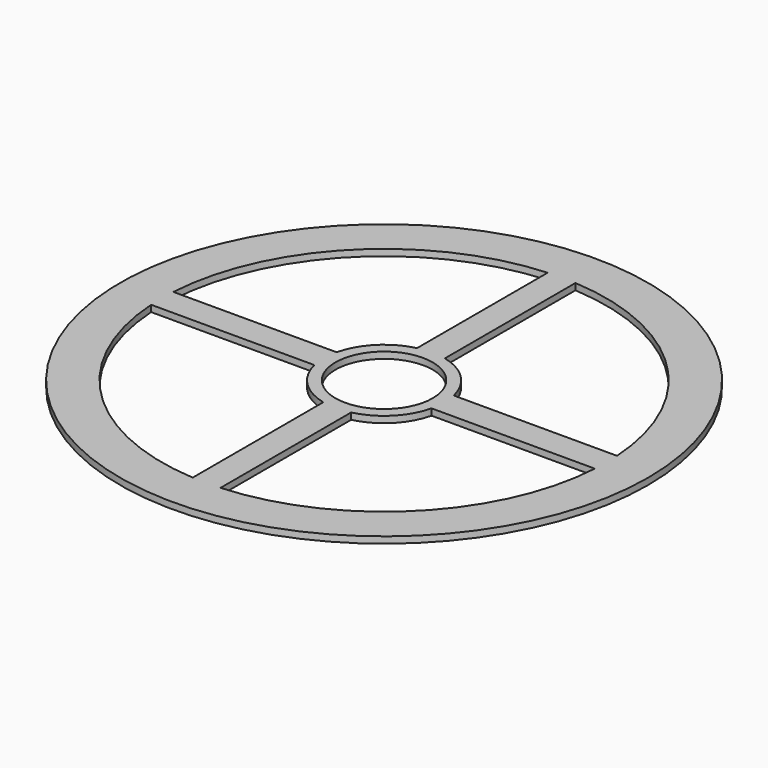
from build123d import *

# Parameters (mm, degrees)
F0_R     = 28.5
F1_DEPTH = 0.7
F2_R     = 5.25
F3_DEPTH = 0.7
F5_DEPTH = 0.7


with BuildPart() as f1:
    # F0 (on Top) → F1 (new body)
    with BuildSketch(Plane.XY):
        Circle(F0_R)
    extrude(amount=F1_DEPTH)

    # F2 (on face) → F3 (cut, through all)
    with BuildSketch(Plane.XY.offset(0.7)):
        Circle(F2_R)
    extrude(amount=-F3_DEPTH, mode=Mode.SUBTRACT)

    # F4 (on face) → F5 (cut, through all)
    with BuildSketch(Plane.XY.offset(0.7)):
        with BuildLine():
            Line((-1.500154, 6.324555), (-1.500154, 23.953079))
            ThreePointArc((-1.500154, 23.953079), (-16.970717, 16.970563), (-23.953233, 1.5))
            Line((-23.953233, 1.5), (-6.324709, 1.5))
            ThreePointArc((-6.324709, 1.5), (-4.596348, 4.596194), (-1.500154, 6.324555))
        make_face()
        with BuildLine():
            Line((6.324401, 1.5), (23.952925, 1.5))
            ThreePointArc((23.952925, 1.5), (16.970409, 16.970563), (1.499846, 23.953079))
            Line((1.499846, 23.953079), (1.499846, 6.324555))
            ThreePointArc((1.499846, 6.324555), (4.59604, 4.596194), (6.324401, 1.5))
        make_face()
        with BuildLine():
            ThreePointArc((1.499846, -23.953079), (16.970409, -16.970563), (23.952925, -1.5))
            Line((23.952925, -1.5), (6.324401, -1.5))
            ThreePointArc((6.324401, -1.5), (4.59604, -4.596194), (1.499846, -6.324555))
            Line((1.499846, -6.324555), (1.499846, -23.953079))
        make_face()
        with BuildLine():
            ThreePointArc((-23.953233, -1.5), (-16.970717, -16.970563), (-1.500154, -23.953079))
            Line((-1.500154, -23.953079), (-1.500154, -6.324555))
            ThreePointArc((-1.500154, -6.324555), (-4.596348, -4.596194), (-6.324709, -1.5))
            Line((-6.324709, -1.5), (-23.953233, -1.5))
        make_face()
    extrude(amount=-F5_DEPTH, mode=Mode.SUBTRACT)


solid = f1.part
